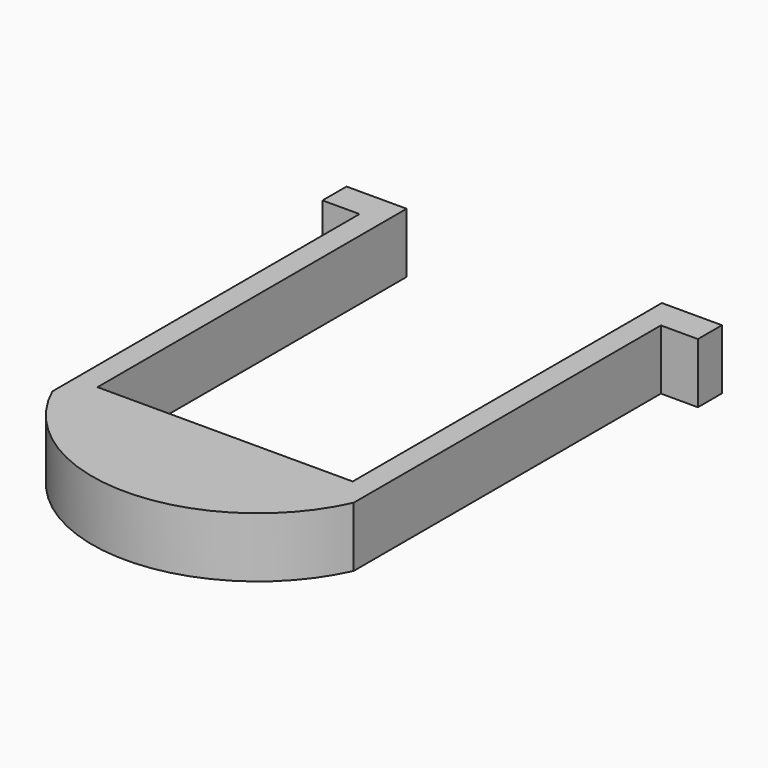
from build123d import *

# Parameters (mm, degrees)
F1_DEPTH = 2


with BuildPart() as f1:
    # F0 (on Top) → F1 (new body)
    with BuildSketch(Plane.XY):
        with BuildLine():
            Line((-4.25, -12.868576), (-4.25, 0))
            Line((-4.25, 0), (-6.25, 0))
            Line((-6.25, 0), (-6.25, -1))
            Line((-6.25, -1), (-5.018, -1))
            Line((-5.018, -1), (-5.018, -13.788901))
            ThreePointArc((-5.018, -13.788901), (0, -17.016697), (5.018, -13.788901))
            Line((5.018, -13.788901), (5.018, -1))
            Line((5.018, -1), (6.25, -1))
            Line((6.25, -1), (6.25, 0))
            Line((6.25, 0), (4.25, 0))
            Line((4.25, 0), (4.25, -12.868576))
            Line((4.25, -12.868576), (-4.25, -12.868576))
        make_face()
    extrude(amount=F1_DEPTH)


solid = f1.part
